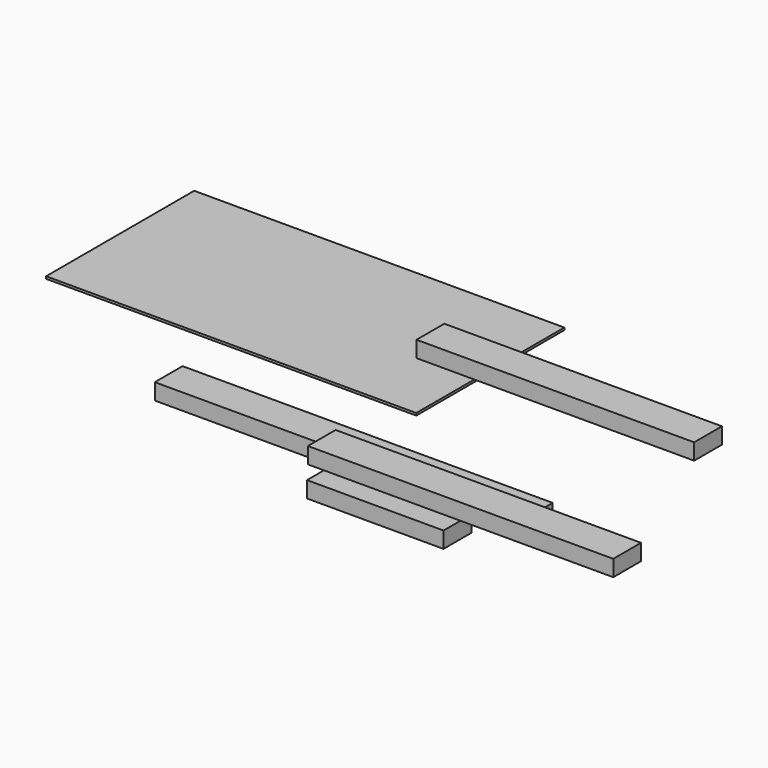
from build123d import *

# Parameters (mm, degrees)
F0_W     = 95.25
F0_H     = 44.45
F1_DEPTH = 508
F2_W     = 95.25
F2_H     = 44.45
F3_DEPTH = 762
F4_W     = 95.25
F4_H     = 44.45
F5_DEPTH = 838.2
F6_W     = 95.25
F6_H     = 44.45
F7_DEPTH = 374.65
F8_W     = 1016
F8_H     = 508
F9_DEPTH = 6.35


with BuildPart() as f1:
    # F0 (on Right) → F1 (new body, symmetric)
    with BuildSketch(Plane.YZ):
        Rectangle(F0_W, F0_H)
    extrude(amount=F1_DEPTH, both=True)


with BuildPart() as f3:
    # F2 (on Right) → F3 (new body)
    with BuildSketch(Plane.YZ):
        with Locations((262.991309, 160.748305)):
            Rectangle(F2_W, F2_H)
    extrude(amount=F3_DEPTH)


with BuildPart() as f5:
    # F4 (on Right) → F5 (new body)
    with BuildSketch(Plane.YZ):
        with Locations((-109.776534, 55.535162)):
            Rectangle(F4_W, F4_H)
    extrude(amount=F5_DEPTH)


with BuildPart() as f7:
    # F6 (on Right) → F7 (new body)
    with BuildSketch(Plane.YZ):
        with Locations((-112.719905, -25.647794)):
            Rectangle(F6_W, F6_H)
    extrude(amount=F7_DEPTH)


with BuildPart() as f9:
    # F8 (on Top) → F9 (new body)
    with BuildSketch(Plane.XY):
        with Locations((-508, 468.479476)):
            Rectangle(F8_W, F8_H)
    extrude(amount=F9_DEPTH)


solid = Compound([f1.part, f3.part, f5.part, f7.part, f9.part])
